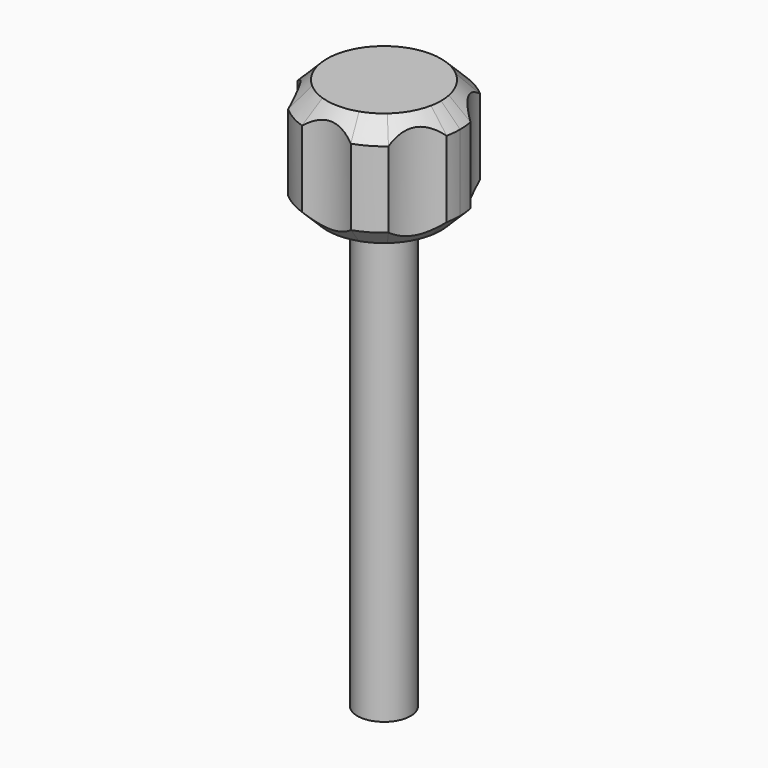
from build123d import *

# Parameters (mm, degrees)
F0_R     = 1.4
F1_DEPTH = 6
F2_SIZE  = 1
F3_DEPTH = 6.001
F4_DEPTH = 23


with BuildPart() as f1:
    # F0 (on Top) → F1 (new body)
    with BuildSketch(Plane.XY):
        with BuildLine():
            ThreePointArc((3.9226903411, -0.7826241038), (3.9806256647, -0.3932166296), (4, 0))
            ThreePointArc((4, 0), (3.9806256647, 0.3932166296), (3.9226903411, 0.7826241038))
            ThreePointArc((3.9226903411, 0.7826241038), (3.0310889132, 1.75), (2.639117526, 3.0058374347))
            ThreePointArc((2.639117526, 3.0058374347), (2, 3.4641016151), (1.2835728151, 3.7884615385))
            ThreePointArc((1.2835728151, 3.7884615385), (0, 3.5), (-1.2835728151, 3.7884615385))
            ThreePointArc((-1.2835728151, 3.7884615385), (-2, 3.4641016151), (-2.639117526, 3.0058374347))
            ThreePointArc((-2.639117526, 3.0058374347), (-3.0310889132, 1.75), (-3.9226903411, 0.7826241038))
            ThreePointArc((-3.9226903411, 0.7826241038), (-4, 0), (-3.9226903411, -0.7826241038))
            ThreePointArc((-3.9226903411, -0.7826241038), (-3.0310889132, -1.75), (-2.639117526, -3.0058374347))
            ThreePointArc((-2.639117526, -3.0058374347), (-2, -3.4641016151), (-1.2835728151, -3.7884615385))
            ThreePointArc((-1.2835728151, -3.7884615385), (0, -3.5), (1.2835728151, -3.7884615385))
            ThreePointArc((1.2835728151, -3.7884615385), (2, -3.4641016151), (2.639117526, -3.0058374347))
            ThreePointArc((2.639117526, -3.0058374347), (3.0310889132, -1.75), (3.9226903411, -0.7826241038))
        make_face()
        Circle(F0_R, mode=Mode.SUBTRACT)
        Circle(F0_R)
        with BuildLine():
            ThreePointArc((-1.2835728151, 3.7884615385), (0, 3.5), (1.2835728151, 3.7884615385))
            ThreePointArc((1.2835728151, 3.7884615385), (0, 4), (-1.2835728151, 3.7884615385))
        make_face()
        with BuildLine():
            ThreePointArc((2.639117526, 3.0058374347), (3.0310889132, 1.75), (3.9226903411, 0.7826241038))
            ThreePointArc((3.9226903411, 0.7826241038), (3.4641016151, 2), (2.639117526, 3.0058374347))
        make_face()
        with BuildLine():
            ThreePointArc((2.639117526, -3.0058374347), (3.4641016151, -2), (3.9226903411, -0.7826241038))
            ThreePointArc((3.9226903411, -0.7826241038), (3.0310889132, -1.75), (2.639117526, -3.0058374347))
        make_face()
        with BuildLine():
            ThreePointArc((-1.2835728151, -3.7884615385), (0, -4), (1.2835728151, -3.7884615385))
            ThreePointArc((1.2835728151, -3.7884615385), (0, -3.5), (-1.2835728151, -3.7884615385))
        make_face()
        with BuildLine():
            ThreePointArc((-3.9226903411, -0.7826241038), (-3.4641016151, -2), (-2.639117526, -3.0058374347))
            ThreePointArc((-2.639117526, -3.0058374347), (-3.0310889132, -1.75), (-3.9226903411, -0.7826241038))
        make_face()
        with BuildLine():
            ThreePointArc((-3.9226903411, 0.7826241038), (-3.0310889132, 1.75), (-2.639117526, 3.0058374347))
            ThreePointArc((-2.639117526, 3.0058374347), (-3.4641016151, 2), (-3.9226903411, 0.7826241038))
        make_face()
    extrude(amount=F1_DEPTH)

    # F2
    f2_edges = [f1.edges().sort_by_distance(p)[0] for p in [
        (2.639118, -3.005837, 6),
        (2.639118, -3.005837, 0),
    ]]
    chamfer(f2_edges, length=F2_SIZE)

    # F0 (on Top) → F3 (cut, through all)
    with BuildSketch(Plane.XY):
        with BuildLine():
            ThreePointArc((-1.2835728151, -3.7884615385), (0, -4), (1.2835728151, -3.7884615385))
            ThreePointArc((1.2835728151, -3.7884615385), (0, -3.5), (-1.2835728151, -3.7884615385))
        make_face()
        with BuildLine():
            ThreePointArc((-3.9226903411, -0.7826241038), (-3.4641016151, -2), (-2.639117526, -3.0058374347))
            ThreePointArc((-2.639117526, -3.0058374347), (-3.0310889132, -1.75), (-3.9226903411, -0.7826241038))
        make_face()
        with BuildLine():
            ThreePointArc((2.639117526, -3.0058374347), (3.4641016151, -2), (3.9226903411, -0.7826241038))
            ThreePointArc((3.9226903411, -0.7826241038), (3.0310889132, -1.75), (2.639117526, -3.0058374347))
        make_face()
        with BuildLine():
            ThreePointArc((2.639117526, 3.0058374347), (3.0310889132, 1.75), (3.9226903411, 0.7826241038))
            ThreePointArc((3.9226903411, 0.7826241038), (3.4641016151, 2), (2.639117526, 3.0058374347))
        make_face()
        with BuildLine():
            ThreePointArc((-1.2835728151, 3.7884615385), (0, 3.5), (1.2835728151, 3.7884615385))
            ThreePointArc((1.2835728151, 3.7884615385), (0, 4), (-1.2835728151, 3.7884615385))
        make_face()
        with BuildLine():
            ThreePointArc((-3.9226903411, 0.7826241038), (-3.0310889132, 1.75), (-2.639117526, 3.0058374347))
            ThreePointArc((-2.639117526, 3.0058374347), (-3.4641016151, 2), (-3.9226903411, 0.7826241038))
        make_face()
    extrude(amount=F3_DEPTH, mode=Mode.SUBTRACT)

    # F0 (on Top) → F4 (join)
    with BuildSketch(Plane.XY):
        Circle(F0_R)
    extrude(amount=-F4_DEPTH)


solid = f1.part
